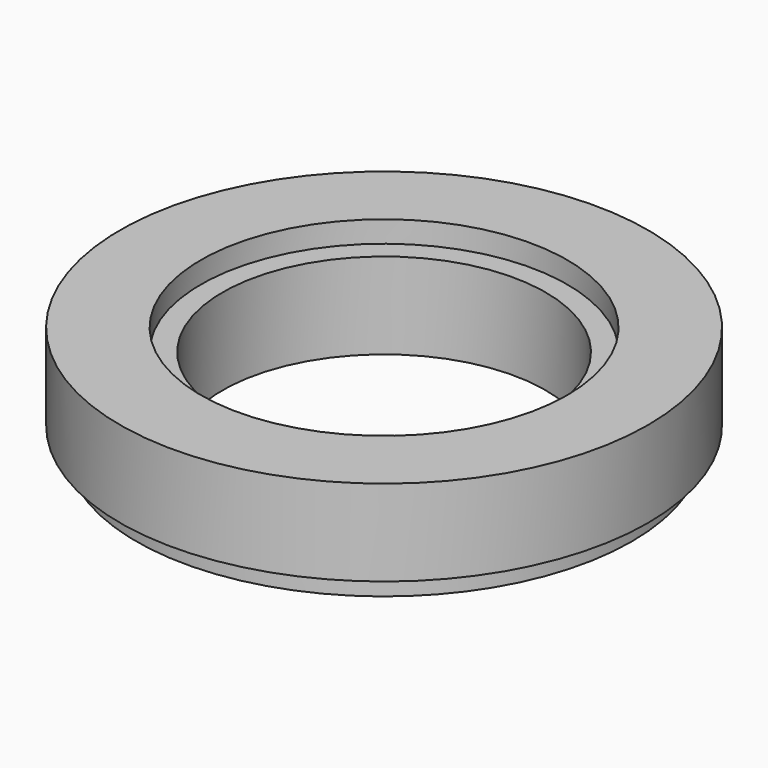
from build123d import *

# Parameters (mm, degrees)
SKETCH_R      = 11.5
SKETCH_R_2    = 7.5
PAD_DEPTH     = 4
SKETCH001_R   = 12.25
SKETCH001_R_2 = 11.5
PAD001_DEPTH  = 4
SKETCH002_R   = 11.5
SKETCH002_R_2 = 8.5
PAD002_DEPTH  = 1


with BuildPart() as part:
    # Sketch → Pad (new body)
    with BuildSketch(Plane.XY):
        Circle(SKETCH_R)
        Circle(SKETCH_R_2, mode=Mode.SUBTRACT)
    extrude(amount=PAD_DEPTH)

    # Sketch001 (on Face3 of Pad) → Pad001 (join)
    with BuildSketch(Plane(origin=(0, 0, 1), x_dir=(1, 0, 0), z_dir=(0, 0, -1))):
        Circle(SKETCH001_R)
        Circle(SKETCH001_R_2, mode=Mode.SUBTRACT)
    extrude(amount=-PAD001_DEPTH)

    # Sketch002 (on Face6 of Pad001) → Pad002 (join)
    with BuildSketch(Plane.XY.offset(4)):
        Circle(SKETCH002_R)
        Circle(SKETCH002_R_2, mode=Mode.SUBTRACT)
    extrude(amount=PAD002_DEPTH)


solid = part.part
